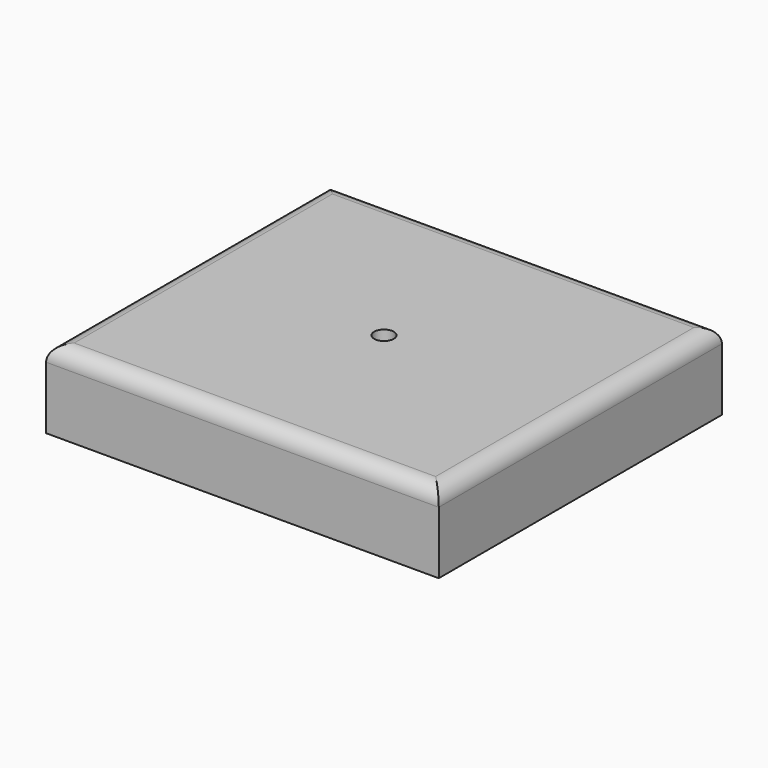
from build123d import *

# Parameters (mm, degrees)
F0_W     = 127.66026
F0_H     = 115.070366
F1_DEPTH = 25.4
F2_R     = 5.08
F4_D     = 6.35


with BuildPart() as f1:
    # F0 (on Top) → F1 (new body)
    with BuildSketch(Plane.XY):
        Rectangle(F0_W, F0_H)
    extrude(amount=F1_DEPTH)

    # F2
    f2_edges = [f1.edges().sort_by_distance(p)[0] for p in [
        (0, -57.535183, 25.4),
        (63.83013, 0, 25.4),
        (0, 57.535183, 25.4),
        (-63.83013, 0, 25.4),
    ]]
    fillet(f2_edges, radius=F2_R)

    # F4 (through all)
    with Locations(Plane.XY.offset(25.4)):
        with Locations((0, 0)):
            Hole(F4_D / 2)


solid = f1.part
